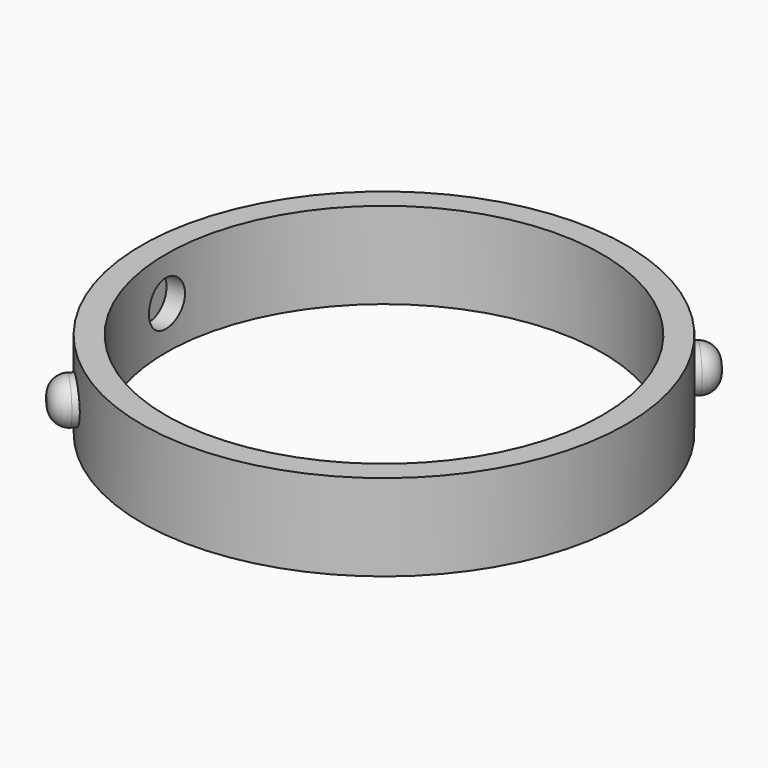
from build123d import *

# Parameters (mm, degrees)
F1_R     = 17.78
F2_DEPTH = 3.175
F3_R     = 1.651
F4_DEPTH = 17.272
F5_R     = 1.5875
F6_DEPTH = 19.431
F7_R     = 16.002
F8_DEPTH = 6.3510001
F9_R     = 1.27


with BuildPart() as f2:
    # F1 (on Top) → F2 (new body, symmetric)
    with BuildSketch(Plane.XY):
        Circle(F1_R)
    extrude(amount=F2_DEPTH, both=True)

    # F3 (on Right) → F4 (cut, symmetric)
    with BuildSketch(Plane.YZ):
        Circle(F3_R)
    extrude(amount=F4_DEPTH, both=True, mode=Mode.SUBTRACT)

    # F5 (on face) → F6 (join, symmetric)
    with BuildSketch(Plane(origin=(0, 0, 0), x_dir=(-0.7071067812, 0.7071067812, 0), z_dir=(0.7071067812, 0.7071067812, 0))):
        Circle(F5_R)
    extrude(amount=F6_DEPTH, both=True)

    # F7 (on face) → F8 (cut, through all)
    with BuildSketch(Plane.XY.offset(3.175)):
        Circle(F7_R)
    extrude(amount=-F8_DEPTH, mode=Mode.SUBTRACT)

    # F9
    f9_edges = [f2.edges().sort_by_distance(p)[0] for p in [
        (14.862324, 12.61726, 0),
        (-12.61726, -14.862324, 0),
    ]]
    fillet(f9_edges, radius=F9_R)


solid = f2.part
